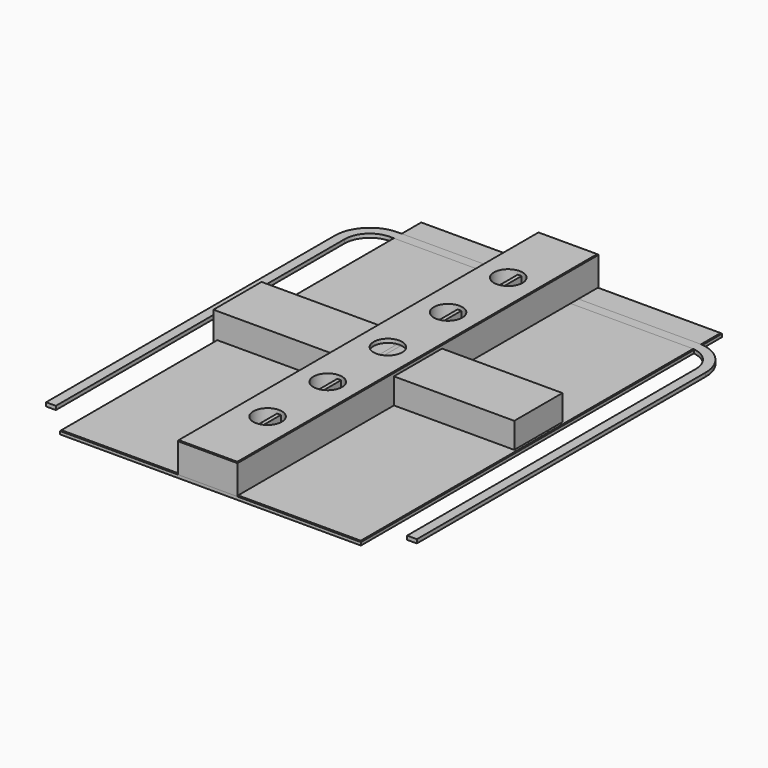
from build123d import *

# Parameters (mm, degrees)
F0_W      = 80
F0_H      = 600
F0_R      = 19
F1_DEPTH  = 44
F2_W      = 400
F2_H      = 80
F3_DEPTH  = 39
F4_W      = 400
F4_H      = 600
F5_DEPTH  = 5
F6_W      = 5
F6_H      = 440
F7_DEPTH  = 39
F8_R      = 17.25
F9_DEPTH  = 44
F8_R_2    = 18.9
F10_DEPTH = 11
F12_DEPTH = 5
F13_SIZE  = 1
F14_SIZE  = 1


with BuildPart() as f1:
    # F0 (on Top) → F1 (new body)
    with BuildSketch(Plane.XY):
        Rectangle(F0_W, F0_H)
        with Locations((0, -200)):
            Circle(F0_R, mode=Mode.SUBTRACT)
        with Locations((0, -100)):
            Circle(F0_R, mode=Mode.SUBTRACT)
        Circle(F0_R, mode=Mode.SUBTRACT)
        with Locations((0, 100)):
            Circle(F0_R, mode=Mode.SUBTRACT)
        with Locations((0, 200)):
            Circle(F0_R, mode=Mode.SUBTRACT)
    extrude(amount=F1_DEPTH)

    # F13
    f13_edges = [f1.edges().sort_by_distance(p)[0] for p in [
        (40, 0, 44),
        (-40, 0, 44),
        (0, -300, 44),
        (0, 300, 44),
        (-40, -300, 22),
        (-40, 300, 22),
    ]]
    chamfer(f13_edges, length=F13_SIZE)


with BuildPart() as f3:
    # F2 (on Top) → F3 (new body)
    with BuildSketch(Plane.XY):
        Rectangle(F2_W, F2_H)
    extrude(amount=F3_DEPTH)


with BuildPart() as f5:
    # F4 (on Top) → F5 (new body)
    with BuildSketch(Plane.XY):
        with Locations((4.1000186466, 0)):
            Rectangle(F4_W, F4_H)
    extrude(amount=F5_DEPTH)

    # F14
    f14_edges = [f5.edges().sort_by_distance(p)[0] for p in [
        (-195.899981, 0, 5),
        (4.100019, -300, 5),
        (204.100019, 0, 5),
        (4.100019, 300, 5),
    ]]
    chamfer(f14_edges, length=F14_SIZE)


with BuildPart() as f7:
    # F6 (on Top) → F7 (new body)
    with BuildSketch(Plane.XY):
        with Locations((0, 6.5792605616)):
            Rectangle(F6_W, F6_H)
    extrude(amount=F7_DEPTH)


with BuildPart() as f9:
    # F8 (on Top) → F9 (new body)
    with BuildSketch(Plane.XY):
        Circle(F8_R)
    extrude(amount=-F9_DEPTH)

    # F8 (on Top) → F10 (join)
    with BuildSketch(Plane.XY):
        Circle(F8_R_2)
        Circle(F8_R, mode=Mode.SUBTRACT)
        Circle(F8_R)
    extrude(amount=F10_DEPTH)


with BuildPart() as f12:
    # F11 (on Top) → F12 (new body)
    with BuildSketch(Plane.XY):
        with BuildLine():
            Line((-200, 260), (200, 260))
            ThreePointArc((200, 260), (228.2842712475, 248.2842712475), (240, 220))
            Line((240, 220), (240, -260))
            Line((240, -260), (246.5, -260))
            Line((246.5, -260), (246.5, 220))
            ThreePointArc((246.5, 220), (232.8804653252, 252.8804653252), (200, 266.5))
            Line((200, 266.5), (-200, 266.5))
            ThreePointArc((-200, 266.5), (-232.8804653252, 252.8804653252), (-246.5, 220))
            Line((-246.5, 220), (-246.5, -260))
            Line((-246.5, -260), (-240, -260))
            Line((-240, -260), (-240, 220))
            ThreePointArc((-240, 220), (-228.2842712475, 248.2842712475), (-200, 260))
        make_face()
        with BuildLine():
            ThreePointArc((240, 220), (228.2842712475, 248.2842712475), (200, 260))
            Line((200, 260), (-200, 260))
            ThreePointArc((-200, 260), (-228.2842712475, 248.2842712475), (-240, 220))
            Line((-240, 220), (-240, -260))
            Line((-240, -260), (-233.5, -260))
            Line((-233.5, -260), (-233.5, 220))
            ThreePointArc((-233.5, 220), (-223.6880771697, 243.6880771697), (-200, 253.5))
            Line((-200, 253.5), (200, 253.5))
            ThreePointArc((200, 253.5), (223.6880771697, 243.6880771697), (233.5, 220))
            Line((233.5, 220), (233.5, -260))
            Line((233.5, -260), (240, -260))
            Line((240, -260), (240, 220))
        make_face()
    extrude(amount=F12_DEPTH)


solid = Compound([f1.part, f3.part, f5.part, f7.part, f9.part, f12.part])
